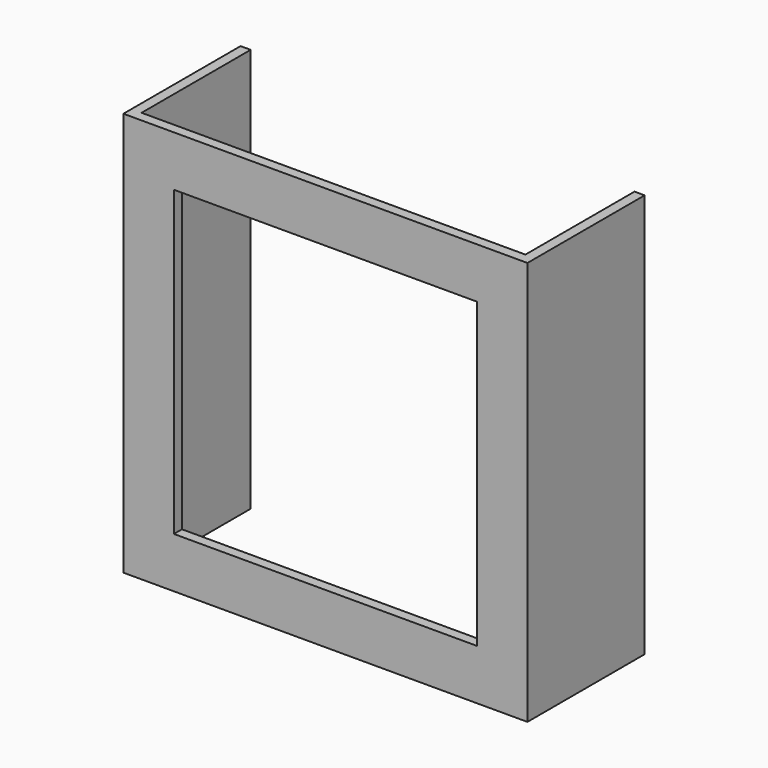
from build123d import *

# Parameters (mm, degrees)
F0_W     = 80
F0_H     = 80
F0_W_2   = 60
F0_H_2   = 60
F1_DEPTH = 2
F2_W     = 2
F2_H     = 80
F3_DEPTH = 27


with BuildPart() as f1:
    # F0 (on Front) → F1 (new body)
    with BuildSketch(Plane.XZ):
        Rectangle(F0_W, F0_H)
        Rectangle(F0_W_2, F0_H_2, mode=Mode.SUBTRACT)
    extrude(amount=F1_DEPTH)

    # F2 (on face) → F3 (join)
    with BuildSketch(Plane(origin=(0, 0, 0), x_dir=(-1, 0, 0), z_dir=(0, 1, 0))):
        with Locations((-39, 0)):
            Rectangle(F2_W, F2_H)
        with Locations((39, 0)):
            Rectangle(F2_W, F2_H)
    extrude(amount=F3_DEPTH)


solid = f1.part
